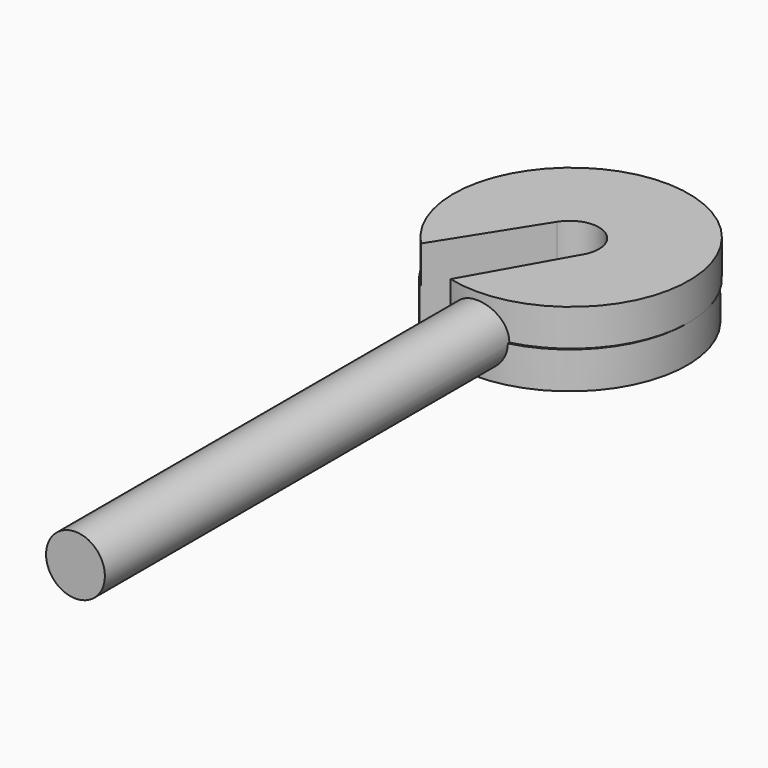
from build123d import *

# Parameters (mm, degrees)
F0_R     = 1
F1_DEPTH = 19.05
F2_R     = 4
F3_DEPTH = 1.25
F4_R     = 4
F5_DEPTH = 1.25
F7_DEPTH = 25
F8_DEPTH = 25


with BuildPart() as f1:
    # F0 (on Front) → F1 (new body)
    with BuildSketch(Plane.XZ):
        Circle(F0_R)
    extrude(amount=F1_DEPTH)

    # F2 (on Top) → F3 (join)
    with BuildSketch(Plane.XY):
        with Locations((0, 2)):
            Circle(F2_R)
    extrude(amount=F3_DEPTH)

    # F4 (on Top) → F5 (join)
    with BuildSketch(Plane.XY):
        with Locations((0, 1.933241)):
            Circle(F4_R)
    extrude(amount=-F5_DEPTH)

    # F6 (on face) → F7 (cut)
    with BuildSketch(Plane(origin=(0, 0, -1.25), x_dir=(1, 0, 0), z_dir=(0, 0, -1))):
        with BuildLine():
            ThreePointArc((-0.845681, -2.46693), (0.277776, -2.893887), (1, -1.933241))
            ThreePointArc((1, -1.933241), (0.967302, -1.679612), (0.871344, -1.442569))
            Line((0.871344, -1.442569), (-0.845681, -2.46693))
        make_face()
        with BuildLine():
            Line((-0.845681, -2.46693), (0.871344, -1.442569))
            ThreePointArc((0.871344, -1.442569), (-0.512341, -1.074459), (-0.845681, -2.46693))
        make_face()
    extrude(amount=-F7_DEPTH, mode=Mode.SUBTRACT)

    # F6 (on face) → F8 (cut)
    with BuildSketch(Plane(origin=(0, 0, -1.25), x_dir=(1, 0, 0), z_dir=(0, 0, -1))):
        with BuildLine():
            ThreePointArc((-0.845681, -2.46693), (-0.512341, -1.074459), (0.871344, -1.442569))
            Line((0.871344, -1.442569), (-1.029019, 1.932134))
            ThreePointArc((-1.029019, 1.932134), (-2.049337, 1.501904), (-2.912605, 0.808425))
            Line((-2.912605, 0.808425), (-0.845681, -2.46693))
        make_face()
    extrude(amount=-F8_DEPTH, mode=Mode.SUBTRACT)


solid = f1.part
